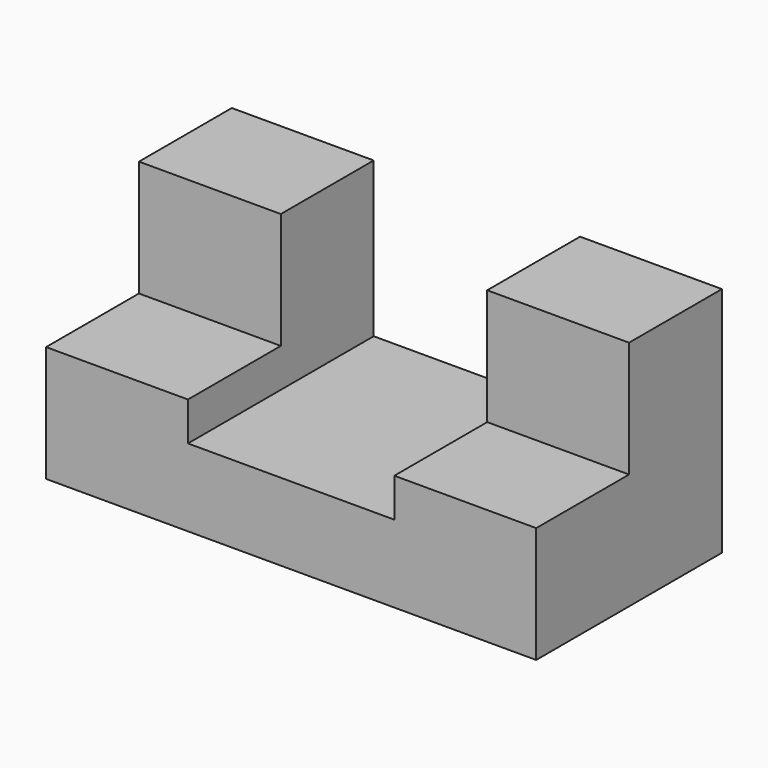
from build123d import *

# Parameters (mm, degrees)
F1_DEPTH = 28.575
F3_DEPTH = 28.575


with BuildPart() as f1:
    # F0 (on Front) → F1 (new body)
    with BuildSketch(Plane.XZ):
        Polygon((-60.120893, 36.739285), (-60.120893, -20.410715), (60.529107, -20.410715), (60.529107, 36.739285), (25.604107, 36.739285), (25.604107, -1.360715), (-25.195893, -1.360715), (-25.195893, 36.739285), align=None)
    extrude(amount=F1_DEPTH)

    # F2 (on face) → F3 (join)
    with BuildSketch(Plane.XZ.offset(28.575)):
        Polygon((-60.120893, 8.164285), (-60.120893, -20.410715), (60.529107, -20.410715), (60.529107, 8.164285), (25.604107, 8.164285), (25.604107, -1.360715), (-25.195893, -1.360715), (-25.195893, 8.164285), align=None)
    extrude(amount=F3_DEPTH)


solid = f1.part
